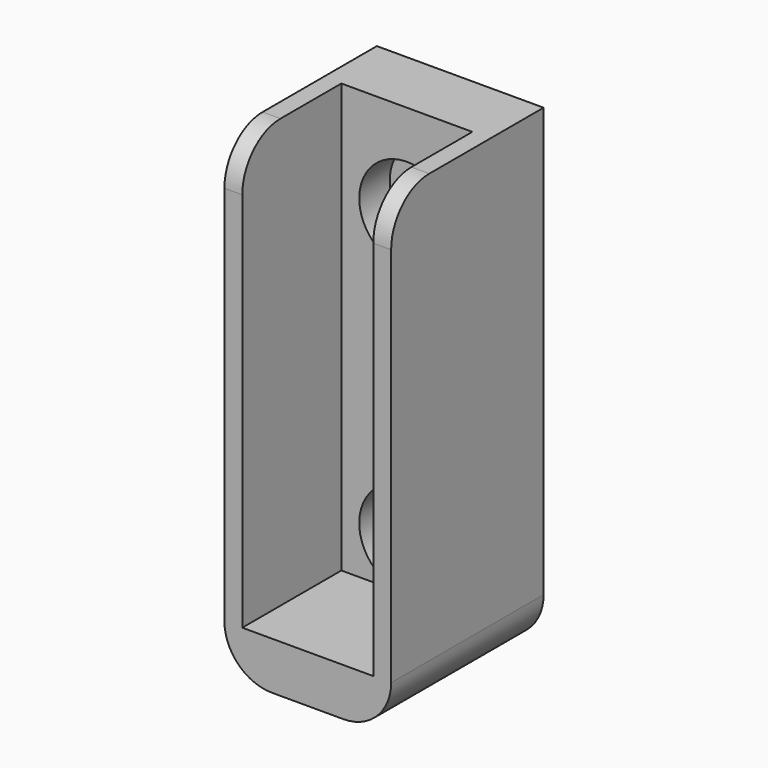
from build123d import *

# Parameters (mm, degrees)
F0_W           = 35
F0_H           = 100
F1_DEPTH       = 40
F2_W           = 27.5
F2_H           = 90
F3_DEPTH       = 26
F4_R           = 10
F6_D           = 8.5
F6_CBORE_D     = 20
F6_CBORE_DEPTH = 8


with BuildPart() as f1:
    # F0 (on Front) → F1 (new body)
    with BuildSketch(Plane.XZ):
        Rectangle(F0_W, F0_H)
    extrude(amount=F1_DEPTH)

    # F2 (on face) → F3 (cut)
    with BuildSketch(Plane.XZ.offset(40)):
        with Locations((0, 5)):
            Rectangle(F2_W, F2_H)
    extrude(amount=-F3_DEPTH, mode=Mode.SUBTRACT)

    # F4
    f4_edges = [f1.edges().sort_by_distance(p)[0] for p in [
        (-15.625, -40, 50),
        (15.625, -40, 50),
        (-17.5, -20, -50),
        (17.5, -20, -50),
    ]]
    fillet(f4_edges, radius=F4_R)

    # F6 (through all)
    with Locations(Plane.XZ.offset(14)):
        with Locations((0, 30), (0, -30)):
            CounterBoreHole(F6_D / 2, F6_CBORE_D / 2, F6_CBORE_DEPTH)


solid = f1.part
